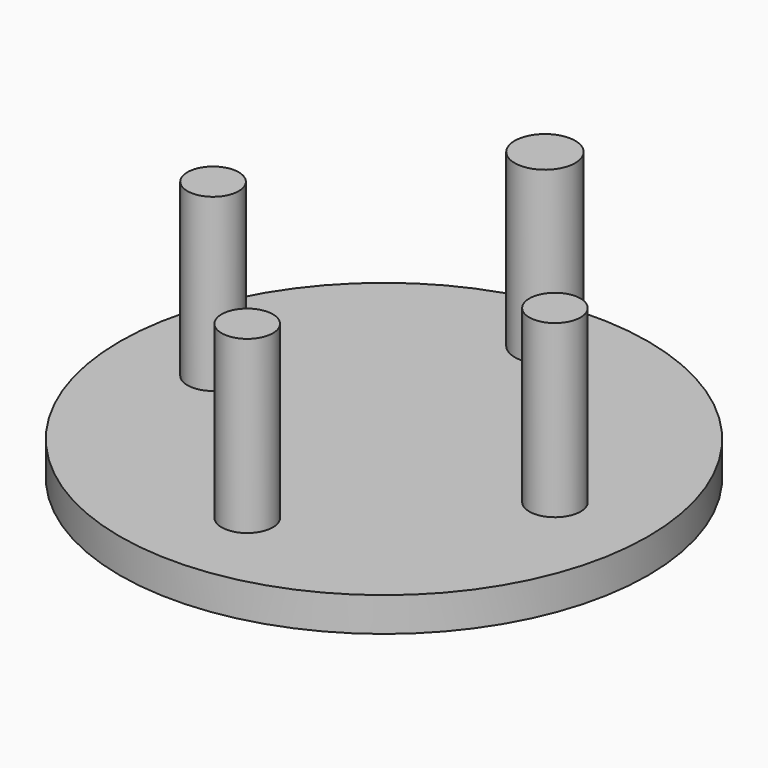
from build123d import *

# Parameters (mm, degrees)
F0_R     = 39.244095
F1_DEPTH = 5.08
F2_R     = 4.493743
F2_R_2   = 3.81
F3_R     = 3.81
F4_DEPTH = 25.4


with BuildPart() as f1:
    # F0 (on Top) → F1 (new body)
    with BuildSketch(Plane.XY):
        Circle(F0_R)
    extrude(amount=F1_DEPTH)

    # F2 (on face) + F3 (on face) → F4 (join)
    with BuildSketch(Plane.XY.offset(5.08)):
        with Locations((0, 29.893743)):
            Circle(F2_R)
        with Locations((0, -25.4)):
            Circle(F2_R_2)
    with BuildSketch(Plane.XY.offset(5.08)):
        with Locations((25.4, 0)):
            Circle(F3_R)
        with Locations((-25.4, 0)):
            Circle(F3_R)
    extrude(amount=F4_DEPTH)


solid = f1.part
